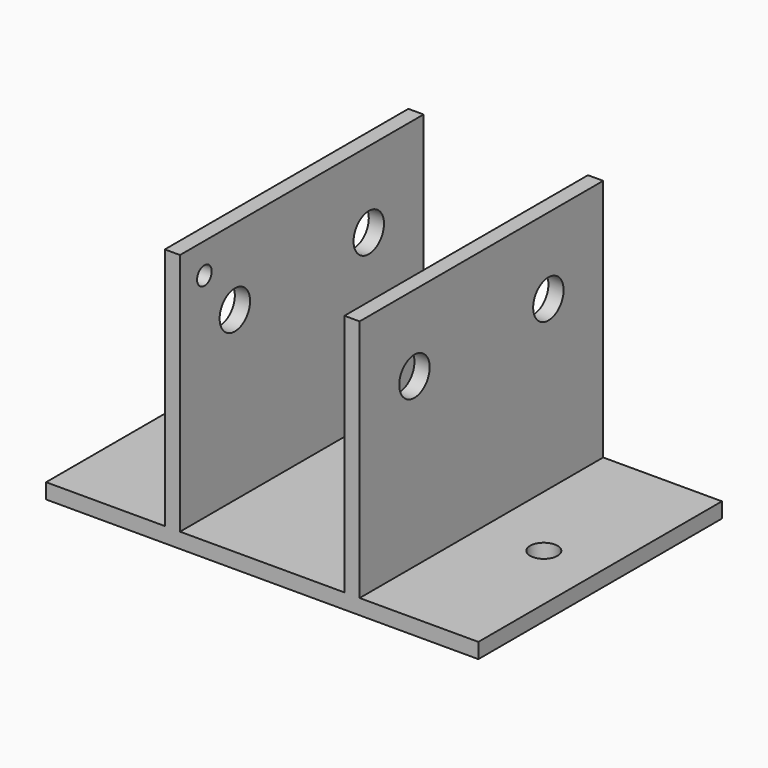
from build123d import *

# Parameters (mm, degrees)
F0_W     = 71
F0_H     = 100
F0_R     = 4.5
F1_DEPTH = 5
F2_W     = 5
F2_H     = 100
F3_DEPTH = 80
F4_R     = 6.25
F5_DEPTH = 71.001
F7_R     = 3
F8_DEPTH = 71.001


with BuildPart() as f1:
    # F0 (on Top) → F1 (new body)
    with BuildSketch(Plane.XY):
        with Locations((35.5, 0)):
            Rectangle(F0_W, F0_H)
        with Locations((52.5, 0)):
            Circle(F0_R, mode=Mode.SUBTRACT)
    extrude(amount=-F1_DEPTH)

    # F2 (on face) → F3 (join)
    with BuildSketch(Plane.XY):
        with Locations((29.5, 0)):
            Rectangle(F2_W, F2_H)
    extrude(amount=F3_DEPTH)

    # F4 (on Right) → F5 (cut, through all)
    with BuildSketch(Plane.YZ):
        with Locations((-27.5, 55)):
            Circle(F4_R)
        with Locations((27.5, 55)):
            Circle(F4_R)
    extrude(amount=F5_DEPTH, mode=Mode.SUBTRACT)

    # F6: F1 across face


with BuildPart() as f1_1:
    add(f1.part)
    add(f1.part.mirror(Plane(origin=(0, 0, -2.5), x_dir=(0, -1, 0), z_dir=(-1, 0, 0))))

    # F7 (on Right) → F8 (cut, through all)
    with BuildSketch(Plane.YZ):
        with Locations((-40, 70)):
            Circle(F7_R)
    extrude(amount=-F8_DEPTH, mode=Mode.SUBTRACT)


solid = f1_1.part
